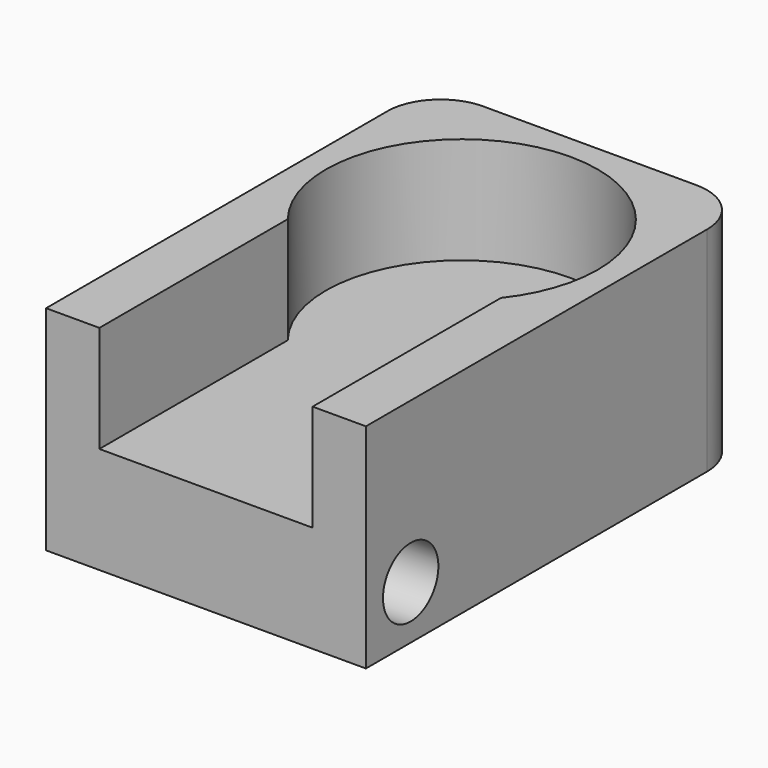
from build123d import *

# Parameters (mm, degrees)
F0_W     = 29.999999
F0_H     = 45
F1_DEPTH = 20
F2_R     = 12.75
F3_DEPTH = 10
F4_R     = 3.25
F5_DEPTH = 20
F6_W     = 20
F6_H     = 22.090354
F7_DEPTH = 10
F8_R     = 5


with BuildPart() as f1:
    # F0 (on Top) → F1 (new body)
    with BuildSketch(Plane.XY):
        with Locations((14.999999, 22.5)):
            Rectangle(F0_W, F0_H)
    extrude(amount=F1_DEPTH)

    # F2 (on face) → F3 (cut)
    with BuildSketch(Plane.XY.offset(20)):
        with Locations((14.999999, 30)):
            Circle(F2_R)
    extrude(amount=-F3_DEPTH, mode=Mode.SUBTRACT)

    # F4 (on face) → F5 (cut)
    with BuildSketch(Plane.YZ.offset(29.999999)):
        with Locations((5.25, 5)):
            Circle(F4_R)
    extrude(amount=-F5_DEPTH, mode=Mode.SUBTRACT)

    # F6 (on face) → F7 (cut)
    with BuildSketch(Plane.XY.offset(20)):
        with Locations((14.999999, 11.045177)):
            Rectangle(F6_W, F6_H)
    extrude(amount=-F7_DEPTH, mode=Mode.SUBTRACT)

    # F8
    f8_edges = [f1.edges().sort_by_distance(p)[0] for p in [
        (0, 45, 10),
        (29.999999, 45, 10),
    ]]
    fillet(f8_edges, radius=F8_R)


solid = f1.part
